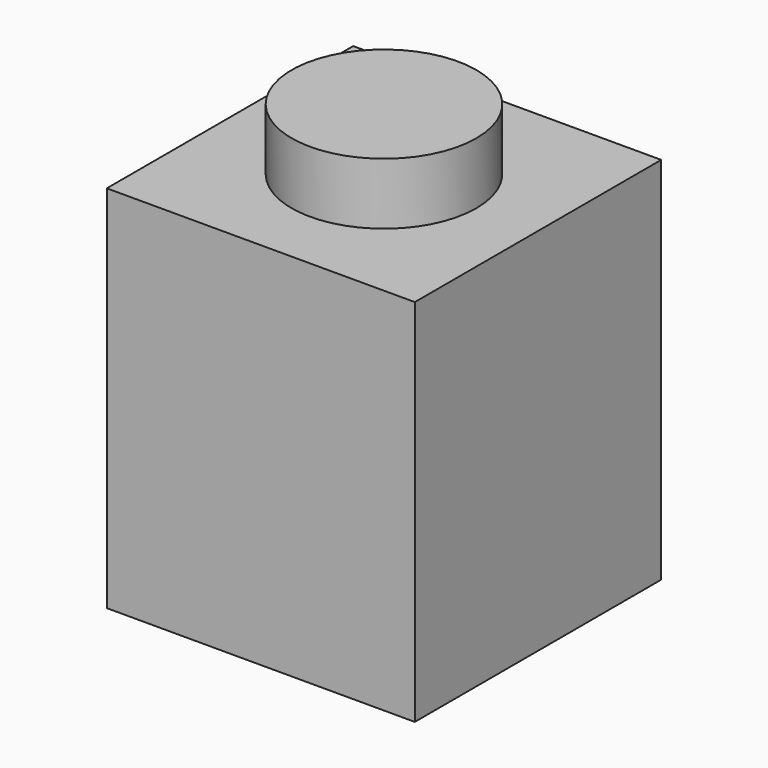
from build123d import *

# Parameters (mm, degrees)
F0_W     = 8
F0_H     = 8
F1_DEPTH = 9.6
F2_W     = 4.8
F2_H     = 4.8
F3_DEPTH = 8
F4_R     = 2.4
F5_DEPTH = 1.6


with BuildPart() as f1:
    # F0 (on Top) → F1 (new body)
    with BuildSketch(Plane.XY):
        Rectangle(F0_W, F0_H)
    extrude(amount=F1_DEPTH)

    # F2 (on face) → F3 (cut)
    with BuildSketch(Plane(origin=(0, 0, 0), x_dir=(1, 0, 0), z_dir=(0, 0, -1))):
        Rectangle(F2_W, F2_H)
    extrude(amount=-F3_DEPTH, mode=Mode.SUBTRACT)

    # F4 (on face) → F5 (join)
    with BuildSketch(Plane.XY.offset(9.6)):
        Circle(F4_R)
    extrude(amount=F5_DEPTH)


solid = f1.part
